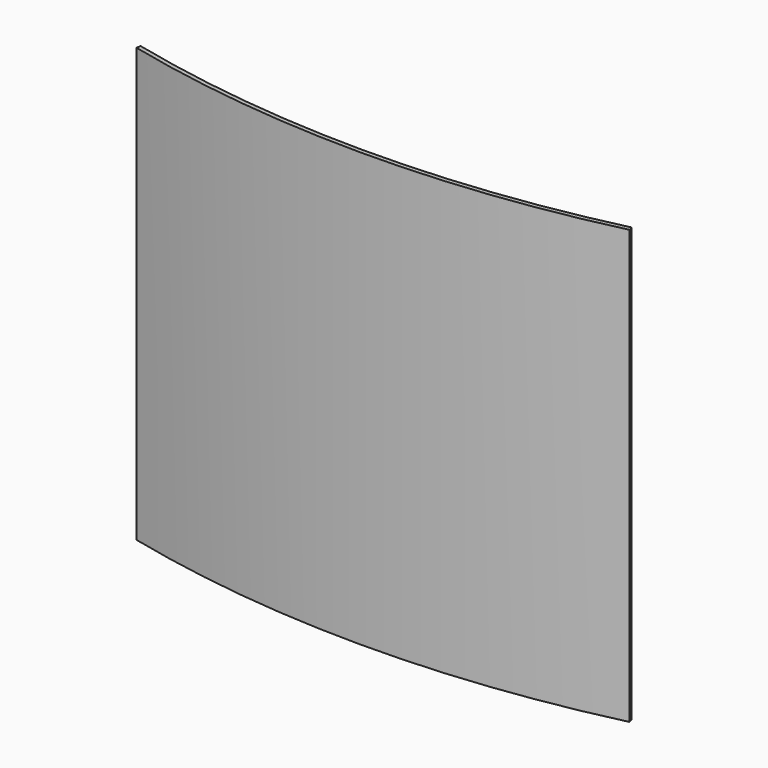
from build123d import *

# Parameters (mm, degrees)
PAD_DEPTH = 381


with BuildPart() as part:
    # Sketch → Pad (new body)
    with BuildSketch(Plane.XY):
        with BuildLine():
            ThreePointArc((-215.9, 25.4), (0, 0), (215.9, 25.4))
            Line((215.9, 25.4), (216.784232, 21.694027))
            ThreePointArc((-216.784232, 21.694027), (0, -3.81), (216.784232, 21.694027))
            Line((-215.9, 25.4), (-216.784232, 21.694027))
        make_face()
    extrude(amount=PAD_DEPTH)


solid = part.part
